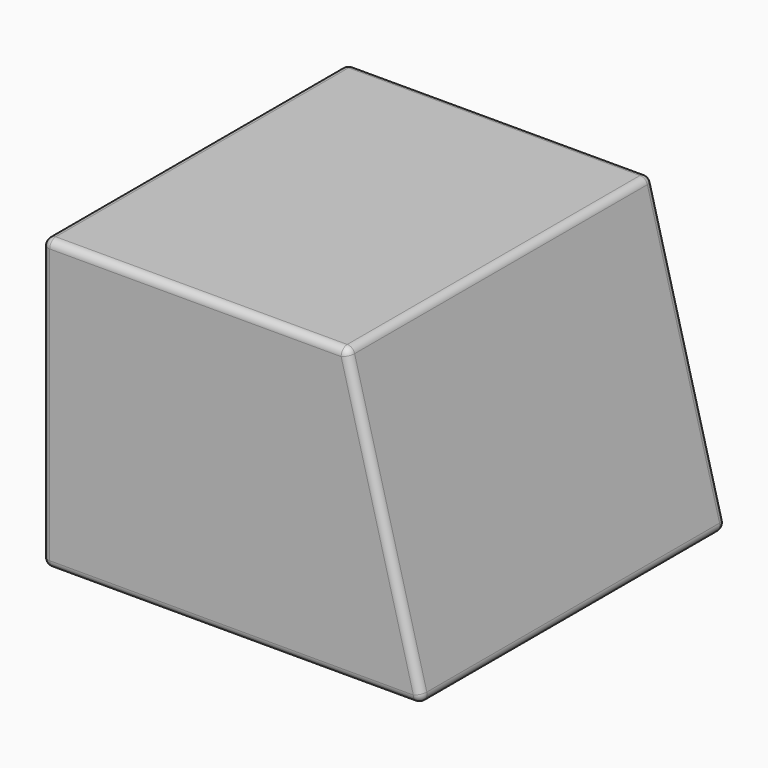
from build123d import *

# Parameters (mm, degrees)
F1_DEPTH = 50
F2_R     = 1


with BuildPart() as f1:
    # F0 (on Front) → F1 (new body)
    with BuildSketch(Plane.XZ):
        Polygon((0, 38), (0, 0), (50, 0), (40, 38), align=None)
    extrude(amount=F1_DEPTH)

    # F2
    f2_edges = [f1.edges().sort_by_distance(p)[0] for p in [
        (40, -25, 38),
        (0, -25, 38),
        (20, 0, 38),
        (20, -50, 38),
        (0, -25, 0),
        (50, -25, 0),
        (25, 0, 0),
        (25, -50, 0),
        (0, -50, 19),
        (45, -50, 19),
        (45, 0, 19),
        (0, 0, 19),
    ]]
    fillet(f2_edges, radius=F2_R)


solid = f1.part
